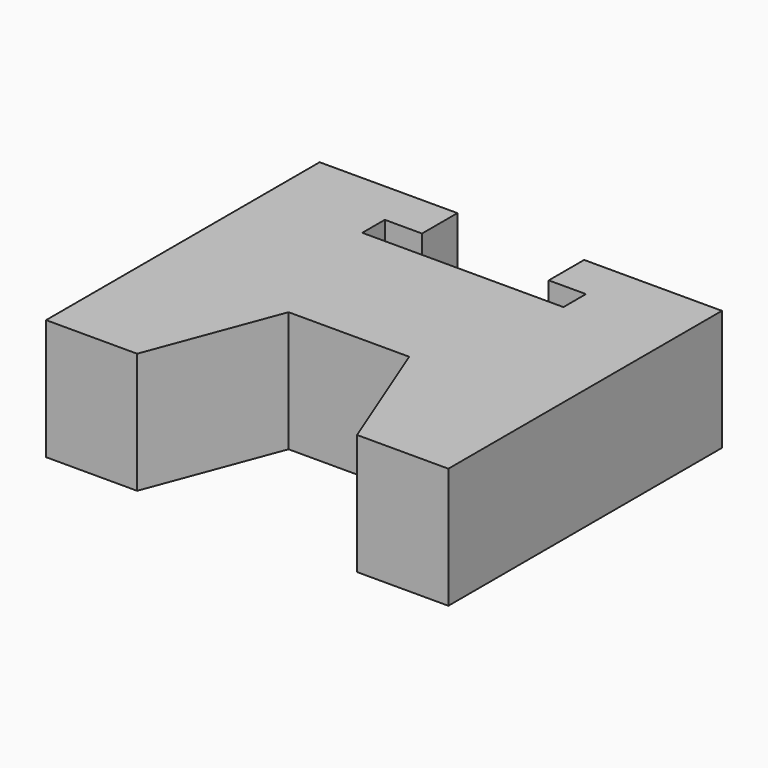
from build123d import *

# Parameters (mm, degrees)
F1_DEPTH = 6


with BuildPart() as f1:
    # F0 (on Top) → F1 (new body)
    with BuildSketch(Plane.XY):
        Polygon((5, 7.210953), (5, 5.810953), (-5, 5.810953), (-5, 7.210953), (-3.15, 7.210953), (-3.15, 9.410953), (-10, 9.410953), (-10, -7.589047), (-5.47344, -7.589047), (-3.065911, -1.188641), (2.934089, -1.188641), (5.459513, -7.589047), (10, -7.589047), (10, 9.410953), (3.15, 9.410953), (3.15, 7.210953), align=None)
    extrude(amount=F1_DEPTH)


solid = f1.part
